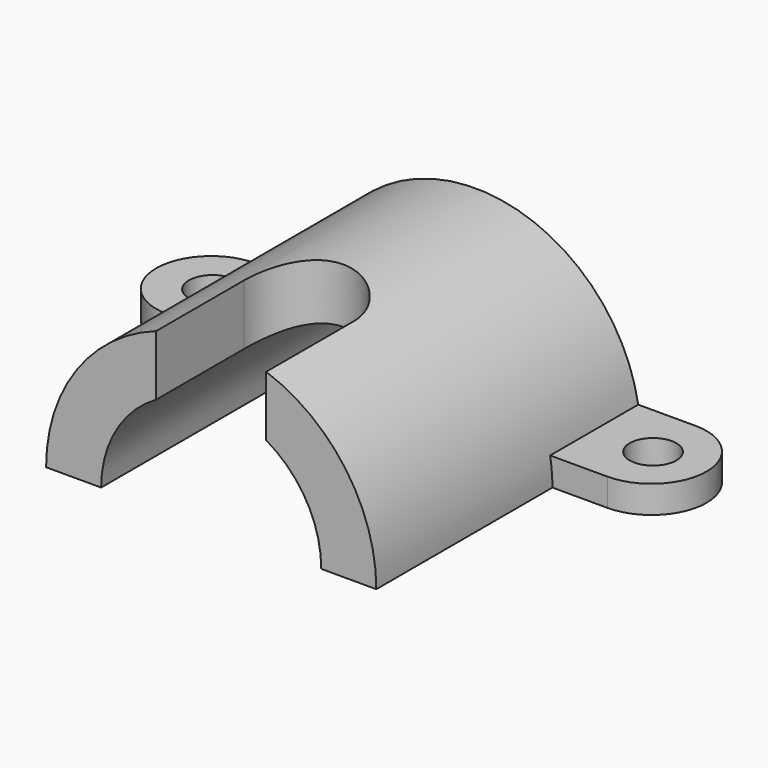
from build123d import *

# Parameters (mm, degrees)
F1_DEPTH = 60
F3_DEPTH = 5
F4_R     = 4.244669
F4_R_2   = 4.337045
F5_DEPTH = 5
F7_DEPTH = 30


with BuildPart() as f1:
    # F0 (on Front) → F1 (new body)
    with BuildSketch(Plane.XZ):
        with BuildLine():
            Line((20, 0), (30, 0))
            ThreePointArc((30, 0), (0, 30), (-30, 0))
            Line((-30, 0), (-20, 0))
            ThreePointArc((-20, 0), (0, 20), (20, 0))
        make_face()
    extrude(amount=-F1_DEPTH)

    # F2 (on Top) → F3 (join)
    with BuildSketch(Plane.XY):
        with BuildLine():
            Line((26, 40), (40, 40))
            ThreePointArc((40, 40), (50, 50), (40, 60))
            Line((40, 60), (26, 60))
            Line((26, 60), (26, 40))
        make_face()
        with BuildLine():
            Line((-39.86631, 60), (-39.866316, 59.999106))
            ThreePointArc((-39.866316, 59.999106), (-49.999777, 50.066844), (-40, 40))
            Line((-40, 40), (-26, 40))
            Line((-26, 40), (-26, 60))
            Line((-26, 60), (-39.86631, 60))
        make_face()
    extrude(amount=F3_DEPTH)

    # F4 (on face) → F5 (cut)
    with BuildSketch(Plane.XY.offset(5)):
        with Locations((40.278634, 50)):
            Circle(F4_R)
        with Locations((-39.721366, 50)):
            Circle(F4_R_2)
    extrude(amount=-F5_DEPTH, mode=Mode.SUBTRACT)

    # F6 (on Top) → F7 (cut)
    with BuildSketch(Plane.XY):
        with BuildLine():
            Line((10, 0), (10, 20))
            ThreePointArc((10, 20), (0, 30), (-10, 20))
            Line((-10, 20), (-10, 0))
            Line((-10, 0), (10, 0))
        make_face()
    extrude(amount=F7_DEPTH, mode=Mode.SUBTRACT)


solid = f1.part
